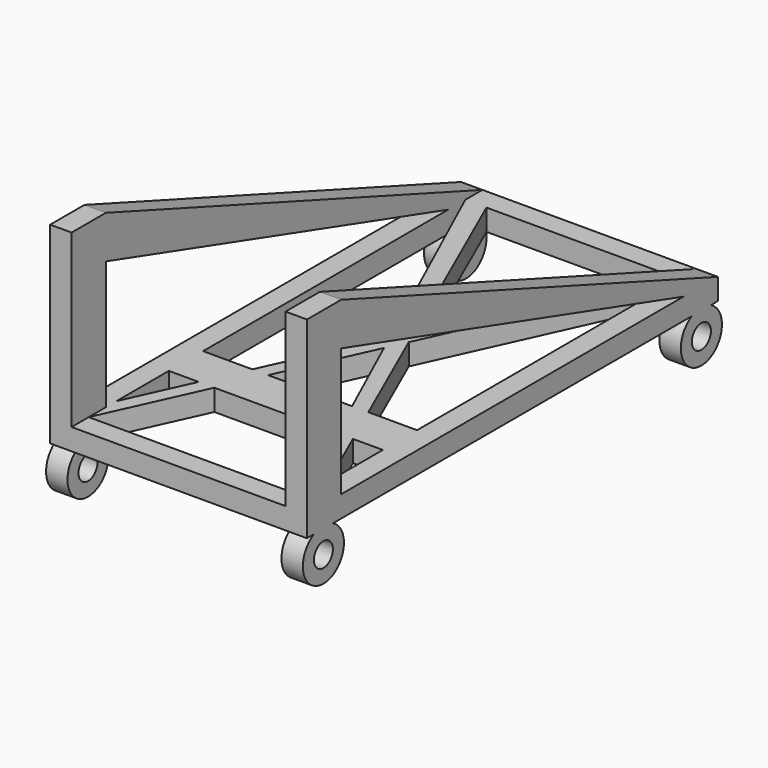
from build123d import *

# Parameters (mm, degrees)
F0_W      = 76.2
F0_H      = 152.4
F1_DEPTH  = 3.175
F3_DEPTH  = 6.35
F5_DEPTH  = 6.35
F6_R      = 3.5259032565
F6_R_2    = 3.5306
F7_DEPTH  = 6.35
F8_R      = 3.5306
F9_DEPTH  = 6.35
F10_W     = 63.5
F10_H     = 12.7
F11_DEPTH = 6.35


with BuildPart() as f1:
    # F0 (on Top) → F1 (new body, symmetric)
    with BuildSketch(Plane.XY):
        Rectangle(F0_W, F0_H)
        Polygon((-31.75, -59.5923059941), (-31.75, 69.85), (-25.4697820636, 69.85), (27.0874118155, 69.85), (31.75, 69.85), (31.75, -60.3154645089), (31.75, -69.85), (-31.75, -69.85), align=None, mode=Mode.SUBTRACT)
        Polygon((-25.4697820636, 69.85), (-31.75, 69.85), (-2.3312940923, 5.128847003), (0.3693541233, 11.0702730772), align=None)
        Polygon((31.75, 69.85), (27.0874118155, 69.85), (0.3693541233, 11.0702730772), (2.6616616495, 5.8556556289), align=None)
        Polygon((2.6616616495, 5.8556556289), (0, 0), (31.75, -69.85), (31.75, -60.3154645089), align=None)
        Polygon((-2.3312940923, 5.128847003), (-31.75, -59.5923059941), (-31.75, -69.85), (0, 0), align=None)
        Polygon((0.3693541233, 11.0702730772), (-2.3312940923, 5.128847003), (0, 0), (2.6616616495, 5.8556556289), align=None)
    extrude(amount=F1_DEPTH, both=True)

    # F2 (on face) → F3 (join)
    with BuildSketch(Plane.YZ.offset(38.1)):
        Polygon((-76.2, 53.975), (-76.2, 3.175), (-63.5, 3.175), (-63.5, 41.275), (-63.5, 53.975), align=None)
        Polygon((-63.5, 53.975), (-63.5, 41.275), (63.5, 3.175), (76.2, 3.175), align=None)
    extrude(amount=-F3_DEPTH)

    # F4 (on face) → F5 (join)
    with BuildSketch(Plane(origin=(-38.1, 0, 0), x_dir=(0, -1, 0), z_dir=(-1, 0, 0))):
        Polygon((63.5, 3.175), (76.2, 3.175), (76.2, 53.975), (63.5, 53.975), (63.5, 41.275), align=None)
        Polygon((-63.5, 3.175), (63.5, 41.275), (63.5, 53.975), (-76.2, 3.175), align=None)
    extrude(amount=-F5_DEPTH)

    # F6 (on face) → F7 (join)
    with BuildSketch(Plane.YZ.offset(38.1)):
        with BuildLine():
            Line((-66.5437802672, -3.175), (-73.66, -3.175))
            ThreePointArc((-73.66, -3.175), (-70.1018901336, -17.5332678916), (-66.5437802672, -3.175))
        make_face()
        with Locations((-70.1018901336, -9.9132678916)):
            Circle(F6_R, mode=Mode.SUBTRACT)
        with BuildLine():
            Line((73.66, -3.175), (66.548, -3.175))
            ThreePointArc((66.548, -3.175), (70.104, -17.534381574), (73.66, -3.175))
        make_face()
        with Locations((70.104, -9.914381574)):
            Circle(F6_R_2, mode=Mode.SUBTRACT)
    extrude(amount=-F7_DEPTH)

    # F8 (on face) → F9 (join)
    with BuildSketch(Plane(origin=(-38.1, 0, 0), x_dir=(0, -1, 0), z_dir=(-1, 0, 0))):
        with BuildLine():
            Line((-66.548, -3.175), (-73.66, -3.175))
            ThreePointArc((-73.66, -3.175), (-70.104, -17.534381574), (-66.548, -3.175))
        make_face()
        with Locations((-70.104, -9.914381574)):
            Circle(F8_R, mode=Mode.SUBTRACT)
        with BuildLine():
            Line((73.66, -3.175), (66.548, -3.175))
            ThreePointArc((66.548, -3.175), (70.104, -17.534381574), (73.66, -3.175))
        make_face()
        with Locations((70.104, -9.914381574)):
            Circle(F8_R, mode=Mode.SUBTRACT)
    extrude(amount=-F9_DEPTH)

    # F10 (on face) → F11 (join)
    with BuildSketch(Plane.XY.offset(3.175)):
        with Locations((0, -33.778134191)):
            Rectangle(F10_W, F10_H)
    extrude(amount=-F11_DEPTH)


with BuildPart() as f12_1:
    # F12: copy of F1
    add(f1.part)


solid = Compound([f1.part, f12_1.part])
